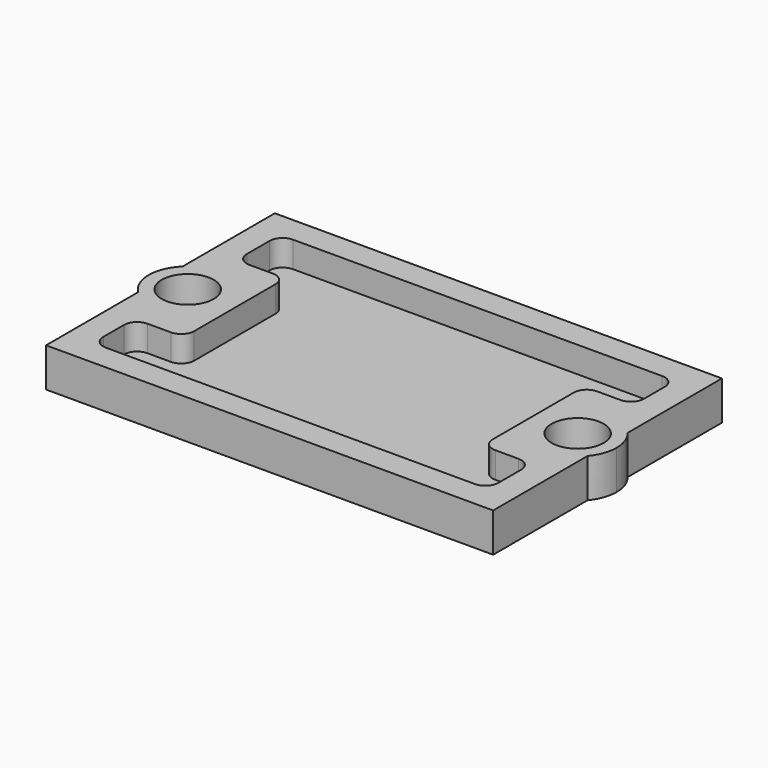
from build123d import *

# Parameters (mm, degrees)
F0_W     = 43.688
F0_H     = 27.94
F1_DEPTH = 3.81
F2_DEPTH = 1.27
F4_DEPTH = 3.81
F3_R     = 2.54
F5_DEPTH = 25.4


with BuildPart() as f1:
    # F0 (on Top) → F1 (new body)
    with BuildSketch(Plane.XY):
        with Locations((-0.9886939079, 2.3718496937)):
            Rectangle(F0_W, F0_H)
        with BuildLine():
            ThreePointArc((-20.2926939079, 12.5318496937), (-19.92071952, 13.4298753058), (-19.0226939079, 13.8018496937))
            Line((-19.0226939079, 13.8018496937), (17.0453060921, 13.8018496937))
            ThreePointArc((17.0453060921, 13.8018496937), (17.9433317042, 13.4298753058), (18.3153060921, 12.5318496937))
            Line((18.3153060921, 12.5318496937), (18.3153060921, 9.9918496937))
            ThreePointArc((18.3153060921, 9.9918496937), (17.9433317042, 9.0938240816), (17.0453060921, 8.7218496937))
            Line((17.0453060921, 8.7218496937), (14.7593060921, 8.7218496937))
            ThreePointArc((14.7593060921, 8.7218496937), (13.86128048, 8.3498753058), (13.4893060921, 7.4518496937))
            Line((13.4893060921, 7.4518496937), (13.4893060921, -2.4541503063))
            ThreePointArc((13.4893060921, -2.4541503063), (13.86128048, -3.3521759184), (14.7593060921, -3.7241503063))
            Line((14.7593060921, -3.7241503063), (17.0453060921, -3.7241503063))
            ThreePointArc((17.0453060921, -3.7241503063), (17.9433317042, -4.0961246942), (18.3153060921, -4.9941503063))
            Line((18.3153060921, -4.9941503063), (18.3153060921, -7.7881503063))
            ThreePointArc((18.3153060921, -7.7881503063), (17.9433317042, -8.6861759184), (17.0453060921, -9.0581503063))
            Line((17.0453060921, -9.0581503063), (-19.0226939079, -9.0581503063))
            ThreePointArc((-19.0226939079, -9.0581503063), (-19.92071952, -8.6861759184), (-20.2926939079, -7.7881503063))
            Line((-20.2926939079, -7.7881503063), (-20.2926939079, -5.2481503063))
            ThreePointArc((-20.2926939079, -5.2481503063), (-19.92071952, -4.3501246942), (-19.0226939079, -3.9781503063))
            Line((-19.0226939079, -3.9781503063), (-16.7366939079, -3.9781503063))
            ThreePointArc((-16.7366939079, -3.9781503063), (-15.8386682958, -3.6061759184), (-15.4666939079, -2.7081503063))
            Line((-15.4666939079, -2.7081503063), (-15.4666939079, 7.1978496937))
            ThreePointArc((-15.4666939079, 7.1978496937), (-15.8386682958, 8.0958753058), (-16.7366939079, 8.4678496937))
            Line((-16.7366939079, 8.4678496937), (-19.0226939079, 8.4678496937))
            ThreePointArc((-19.0226939079, 8.4678496937), (-19.92071952, 8.8398240816), (-20.2926939079, 9.7378496937))
            Line((-20.2926939079, 9.7378496937), (-20.2926939079, 12.5318496937))
        make_face(mode=Mode.SUBTRACT)
    extrude(amount=F1_DEPTH)

    # F0 (on Top) → F2 (join)
    with BuildSketch(Plane.XY):
        with BuildLine():
            Line((17.0453060921, 13.8018496937), (-19.0226939079, 13.8018496937))
            ThreePointArc((-19.0226939079, 13.8018496937), (-19.92071952, 13.4298753058), (-20.2926939079, 12.5318496937))
            Line((-20.2926939079, 12.5318496937), (-20.2926939079, 9.7378496937))
            ThreePointArc((-20.2926939079, 9.7378496937), (-19.92071952, 8.8398240816), (-19.0226939079, 8.4678496937))
            Line((-19.0226939079, 8.4678496937), (-16.7366939079, 8.4678496937))
            ThreePointArc((-16.7366939079, 8.4678496937), (-15.8386682958, 8.0958753058), (-15.4666939079, 7.1978496937))
            Line((-15.4666939079, 7.1978496937), (-15.4666939079, -2.7081503063))
            ThreePointArc((-15.4666939079, -2.7081503063), (-15.8386682958, -3.6061759184), (-16.7366939079, -3.9781503063))
            Line((-16.7366939079, -3.9781503063), (-19.0226939079, -3.9781503063))
            ThreePointArc((-19.0226939079, -3.9781503063), (-19.92071952, -4.3501246942), (-20.2926939079, -5.2481503063))
            Line((-20.2926939079, -5.2481503063), (-20.2926939079, -7.7881503063))
            ThreePointArc((-20.2926939079, -7.7881503063), (-19.92071952, -8.6861759184), (-19.0226939079, -9.0581503063))
            Line((-19.0226939079, -9.0581503063), (17.0453060921, -9.0581503063))
            ThreePointArc((17.0453060921, -9.0581503063), (17.9433317042, -8.6861759184), (18.3153060921, -7.7881503063))
            Line((18.3153060921, -7.7881503063), (18.3153060921, -4.9941503063))
            ThreePointArc((18.3153060921, -4.9941503063), (17.9433317042, -4.0961246942), (17.0453060921, -3.7241503063))
            Line((17.0453060921, -3.7241503063), (14.7593060921, -3.7241503063))
            ThreePointArc((14.7593060921, -3.7241503063), (13.86128048, -3.3521759184), (13.4893060921, -2.4541503063))
            Line((13.4893060921, -2.4541503063), (13.4893060921, 7.4518496937))
            ThreePointArc((13.4893060921, 7.4518496937), (13.86128048, 8.3498753058), (14.7593060921, 8.7218496937))
            Line((14.7593060921, 8.7218496937), (17.0453060921, 8.7218496937))
            ThreePointArc((17.0453060921, 8.7218496937), (17.9433317042, 9.0938240816), (18.3153060921, 9.9918496937))
            Line((18.3153060921, 9.9918496937), (18.3153060921, 12.5318496937))
            ThreePointArc((18.3153060921, 12.5318496937), (17.9433317042, 13.4298753058), (17.0453060921, 13.8018496937))
        make_face()
    extrude(amount=F2_DEPTH)

    # F3 (on face) → F4 (join)
    with BuildSketch(Plane.XY.offset(3.81)):
        with BuildLine():
            Line((-22.8326939079, -0.3490345376), (-22.8326939079, 5.092733925))
            ThreePointArc((-22.8326939079, 5.092733925), (-23.9756939079, 2.3718496937), (-22.8326939079, -0.3490345376))
        make_face()
        with BuildLine():
            ThreePointArc((21.7443060921, 2.3718496937), (21.5151656258, 3.673212441), (20.8553060921, 4.8180424498))
            Line((20.8553060921, 4.8180424498), (20.8553060921, -0.0743430624))
            ThreePointArc((20.8553060921, -0.0743430624), (21.5151656258, 1.0704869464), (21.7443060921, 2.3718496937))
        make_face()
    extrude(amount=-F4_DEPTH)

    # F3 (on face) → F5 (cut)
    with BuildSketch(Plane.XY.offset(3.81)):
        with Locations((-20.1656939079, 2.3718496937)):
            Circle(F3_R)
        with Locations((17.9343060921, 2.3718496937)):
            Circle(F3_R)
    extrude(amount=-F5_DEPTH, mode=Mode.SUBTRACT)


solid = f1.part
